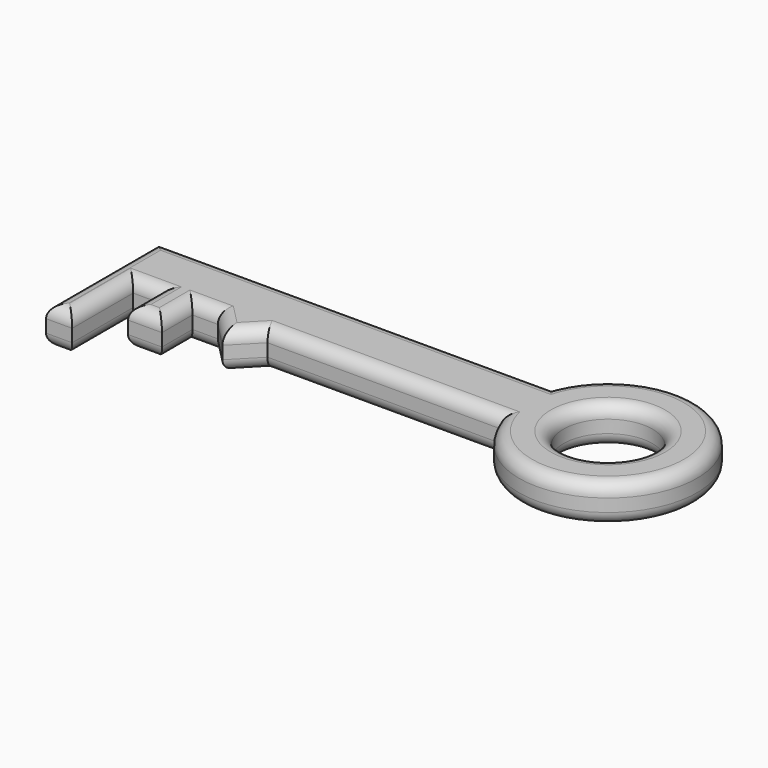
from build123d import *

# Parameters (mm, degrees)
F0_R     = 17.5
F1_DEPTH = 15
F2_R     = 5
F3_R     = 5


with BuildPart() as f1:
    # F0 (on Top) → F1 (new body)
    with BuildSketch(Plane.XY):
        with BuildLine():
            Line((47.947033, 25), (-107.052967, 25))
            Line((-107.052967, 25), (-107.052967, 0))
            Line((-107.052967, 0), (-107.052967, -30))
            Line((-107.052967, -30), (-96.799608, -30))
            Line((-96.799608, -30), (-96.799608, 0))
            Line((-96.799608, 0), (-86.799608, 0))
            Line((-86.799608, 0), (-86.799608, -15))
            Line((-86.799608, -15), (-73.469838, -15))
            Line((-73.469838, -15), (-73.469838, 0))
            Line((-73.469838, 0), (-63.469838, 0))
            Line((-63.469838, 0), (-53.677226, -10))
            Line((-53.677226, -10), (-43.945315, 0))
            Line((-43.945315, 0), (47.541927, 0))
            ThreePointArc((47.541927, 0), (115.42671, 11.403261), (47.947033, 25))
        make_face()
        with Locations((80.431304, 11.970335)):
            Circle(F0_R, mode=Mode.SUBTRACT)
    extrude(amount=F1_DEPTH)

    # F2
    f2_edges = [f1.edges().sort_by_distance(p)[0] for p in [
        (-29.552967, 25, 15),
        (-107.052967, -2.5, 15),
        (-96.799608, -15, 15),
        (-101.926287, -30, 15),
        (-86.799608, -7.5, 15),
        (-80.134723, -15, 15),
        (-73.469838, -7.5, 15),
        (-68.469838, 0, 15),
        (-91.799608, 0, 15),
        (-58.573532, -5, 15),
        (-48.81127, -5, 15),
        (1.798306, 0, 15),
        (115.42671, 11.403261, 15),
        (62.931304, 11.970335, 15),
    ]]
    fillet(f2_edges, radius=F2_R)

    # F3
    f3_edges = [f1.edges().sort_by_distance(p)[0] for p in [
        (115.42671, 11.403261, 0),
        (1.798306, 0, 0),
        (-48.81127, -5, 0),
        (-58.573532, -5, 0),
        (-68.469838, 0, 0),
        (-73.469838, -7.5, 0),
        (-80.134723, -15, 0),
        (-91.799608, 0, 0),
        (-29.552967, 25, 0),
        (-107.052967, -2.5, 0),
        (-101.926287, -30, 0),
        (-96.799608, -15, 0),
        (-86.799608, -7.5, 0),
        (62.931304, 11.970335, 0),
    ]]
    fillet(f3_edges, radius=F3_R)


solid = f1.part
